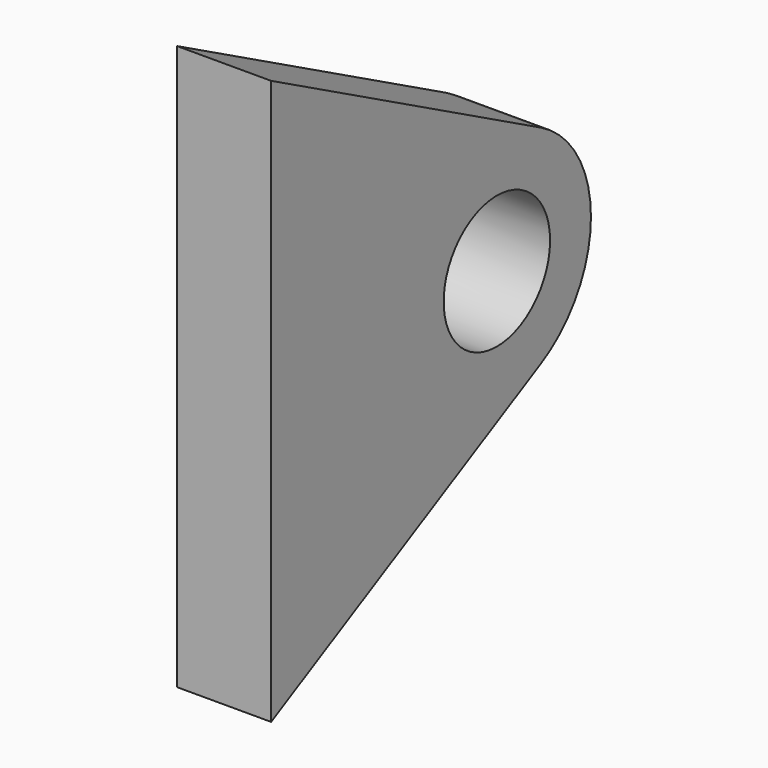
from build123d import *

# Parameters (mm, degrees)
F0_R     = 7.07
F1_DEPTH = 10


with BuildPart() as f1:
    # F0 (on Right) → F1 (new body)
    with BuildSketch(Plane.YZ):
        with BuildLine():
            Line((0, 60), (0, 0))
            Line((0, 0), (35.842331, 18.949336))
            ThreePointArc((35.842331, 18.949336), (42.5, 30), (35.842331, 41.050664))
            Line((35.842331, 41.050664), (0, 60))
        make_face()
        with Locations((30, 30)):
            Circle(F0_R, mode=Mode.SUBTRACT)
    extrude(amount=F1_DEPTH)


solid = f1.part
